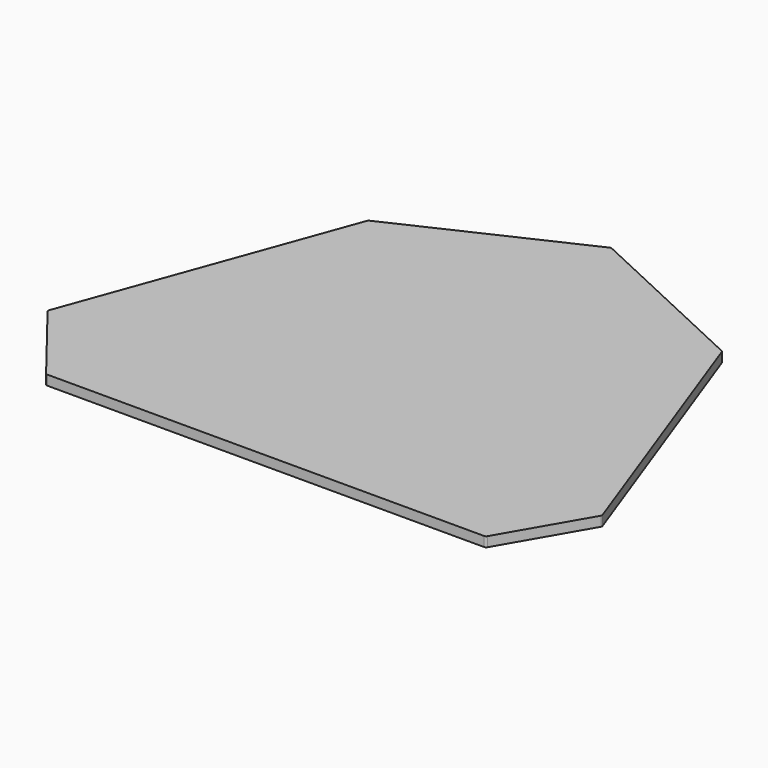
from build123d import *

# Parameters (mm, degrees)
F1_DEPTH = 2
F2_R     = 0.5


with BuildPart() as f1:
    # F0 (on Top) → F1 (new body)
    with BuildSketch(Plane.XY):
        Polygon((-47.663778, 0), (-34.116738, -17.320508), (55.883262, -17.320508), (65.883262, 0), (45.362053, 56.381557), (9.109742, 73.286288), (-27.142569, 56.381557), align=None)
    extrude(amount=F1_DEPTH)

    # F2
    f2_edges = [f1.edges().sort_by_distance(p)[0] for p in [
        (9.109742, 73.286288, 1),
        (-27.142569, 56.381557, 1),
        (-47.663778, 0, 1),
        (-34.116738, -17.320508, 1),
        (55.883262, -17.320508, 1),
        (65.883262, 0, 1),
        (45.362053, 56.381557, 1),
    ]]
    fillet(f2_edges, radius=F2_R)


solid = f1.part
